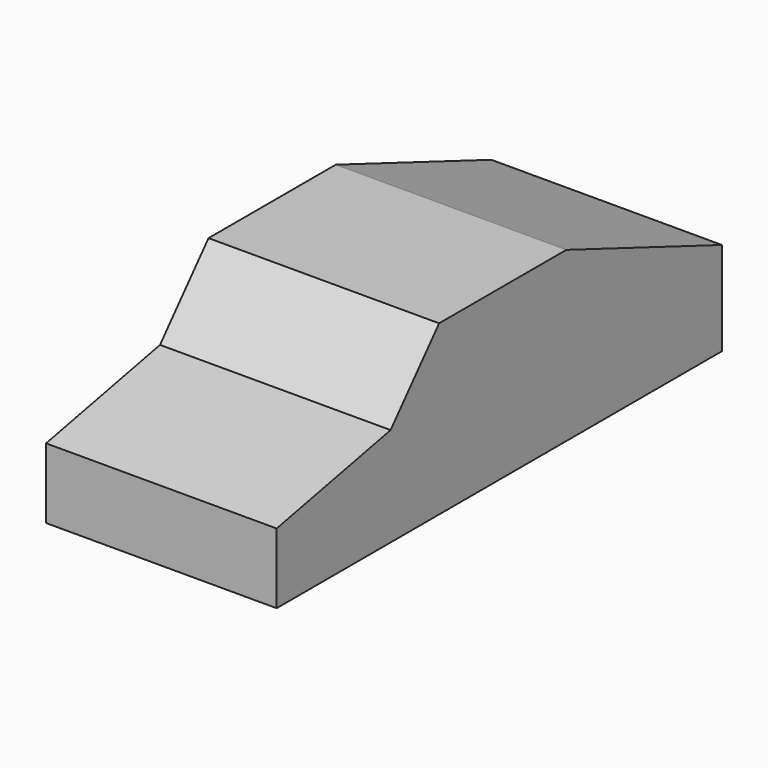
from build123d import *

# Parameters (mm, degrees)
F0_W     = 1740
F0_H     = 4200
F1_DEPTH = 1270
F3_DEPTH = 1740


with BuildPart() as f1:
    # F0 (on Top) → F1 (new body)
    with BuildSketch(Plane.XY):
        with Locations((34.11721, 644.569875)):
            Rectangle(F0_W, F0_H)
    extrude(amount=F1_DEPTH)

    # F2 (on face) → F3 (cut, through all)
    with BuildSketch(Plane(origin=(-835.88279, 0, 0), x_dir=(0, -1, 0), z_dir=(-1, 0, 0))):
        Polygon((-2744.569875, 705.970407), (-1276.748896, 1270), (-2744.569875, 1270), align=None)
        Polygon((380.814463, 746.646821), (1455.430125, 529.706001), (1455.430125, 1270), (-76.795049, 1270), align=None)
    extrude(amount=-F3_DEPTH, mode=Mode.SUBTRACT)


solid = f1.part
